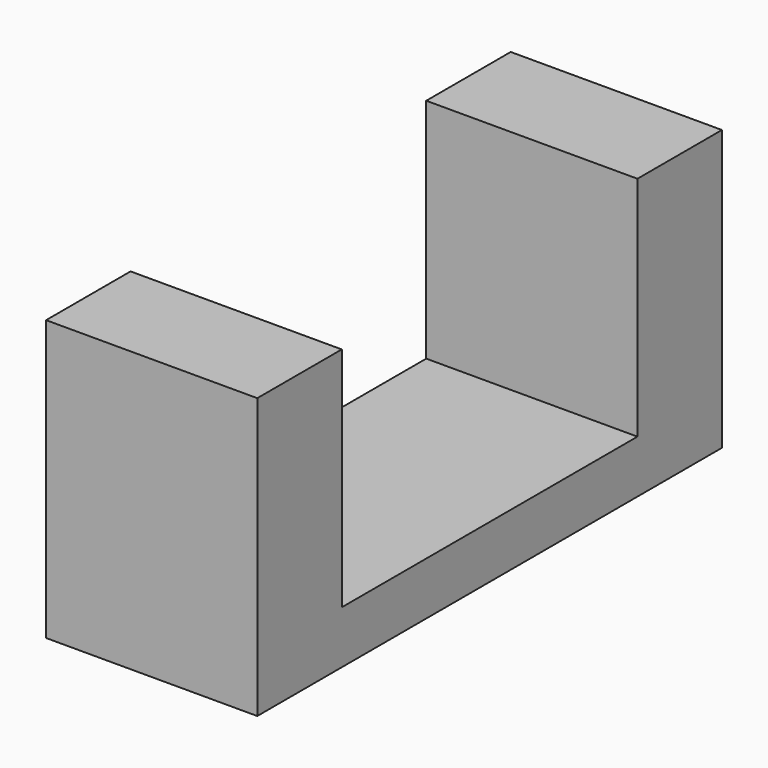
from build123d import *

# Parameters (mm, degrees)
BOX002_W     = 4
BOX002_H     = 7
BOX002_DEPTH = 1
BOX007_W     = 4
BOX007_H     = 2
BOX007_DEPTH = 5.3
BOX003_W     = 4
BOX003_H     = 2
BOX003_DEPTH = 5.3


with BuildPart() as cubo003:
    # Box002 → Box002 (new body)
    with BuildSketch(Plane(origin=(0, 1, 0), x_dir=(1, 0, 0), z_dir=(0, 0, 1))):
        with Locations((2, 3.5)):
            Rectangle(BOX002_W, BOX002_H)
    extrude(amount=BOX002_DEPTH)


with BuildPart() as cubo006:
    # Box007 → Box007 (new body)
    with BuildSketch(Plane(origin=(0, 8, 0), x_dir=(1, 0, 0), z_dir=(0, 0, 1))):
        with Locations((2, 1)):
            Rectangle(BOX007_W, BOX007_H)
    extrude(amount=BOX007_DEPTH)


with BuildPart() as bridge:
    # Box003 → Box003 (new body)
    with BuildSketch(Plane(origin=(0, -1, 0), x_dir=(1, 0, 0), z_dir=(0, 0, 1))):
        with Locations((2, 1)):
            Rectangle(BOX003_W, BOX003_H)
    extrude(amount=BOX003_DEPTH)

    # Fusion007: union Cubo003, Cubo006
    add(cubo003.part)
    add(cubo006.part)


with BuildPart() as bridge_1:
    # Fusion007 placement: moved
    add(bridge.part.moved(Location((-9, -4.5, 91.81))))


solid = bridge_1.part
